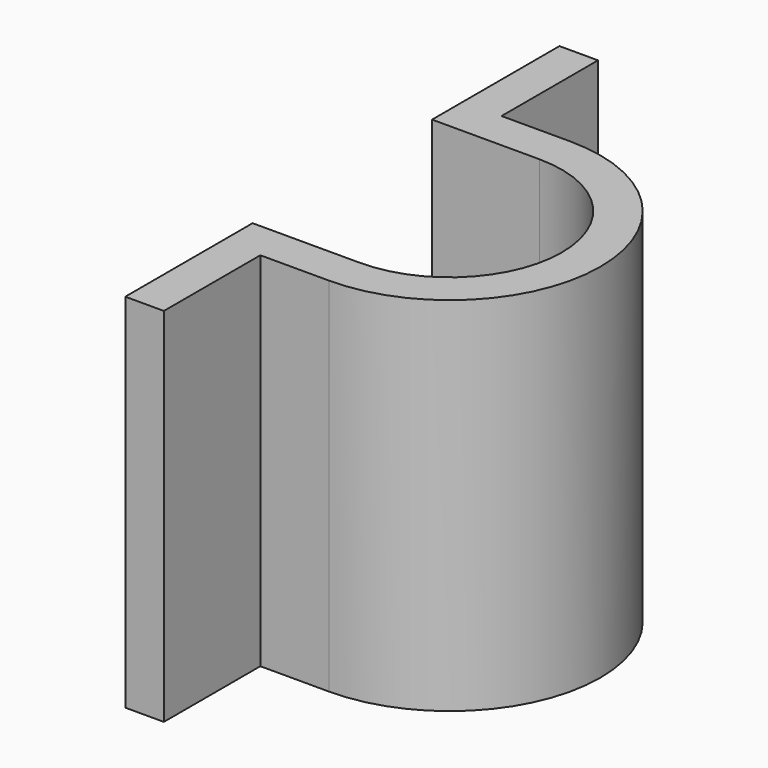
from build123d import *

# Parameters (mm, degrees)
F1_DEPTH = 19.05


with BuildPart() as f1:
    # F0 (on Top) → F1 (new body)
    with BuildSketch(Plane.XY):
        with BuildLine():
            Line((-5.6515, 5.9055), (0, 5.9055))
            ThreePointArc((0, 5.9055), (5.9055, 0), (0, -5.9055))
            Line((0, -5.9055), (-5.6515, -5.9055))
            Line((-5.6515, -5.9055), (-5.6515, -7.9375))
            Line((-5.6515, -7.9375), (-5.6515, -14.2875))
            Line((-5.6515, -14.2875), (-3.6195, -14.2875))
            Line((-3.6195, -14.2875), (-3.6195, -7.9375))
            Line((-3.6195, -7.9375), (0, -7.9375))
            ThreePointArc((0, -7.9375), (7.9375, 0), (0, 7.9375))
            Line((0, 7.9375), (-3.6195, 7.9375))
            Line((-3.6195, 7.9375), (-3.6195, 14.2875))
            Line((-3.6195, 14.2875), (-5.6515, 14.2875))
            Line((-5.6515, 14.2875), (-5.6515, 7.9375))
            Line((-5.6515, 7.9375), (-5.6515, 5.9055))
        make_face()
    extrude(amount=F1_DEPTH)


solid = f1.part
